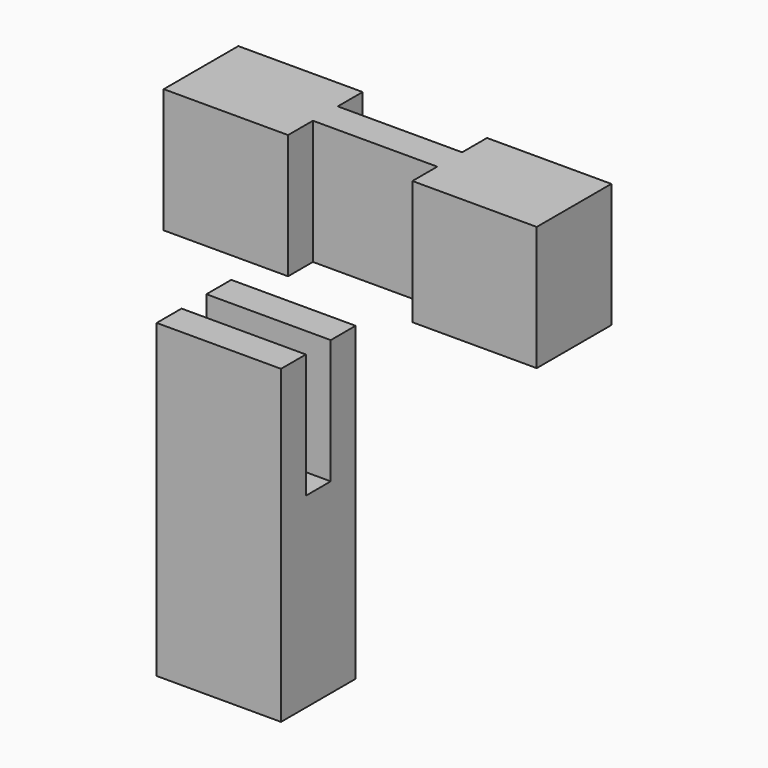
from build123d import *

# Parameters (mm, degrees)
F0_W     = 40
F0_H     = 100
F1_DEPTH = 30
F2_W     = 40
F2_H     = 10
F3_DEPTH = 40
F4_W     = 120
F4_H     = 40
F5_DEPTH = 30
F6_W     = 40
F6_H     = 40
F7_DEPTH = 10
F8_W     = 40
F8_H     = 40
F9_DEPTH = 10


with BuildPart() as f1:
    # F0 (on Front) → F1 (new body)
    with BuildSketch(Plane.XZ):
        with Locations((-39.255778, 2.386363)):
            Rectangle(F0_W, F0_H)
    extrude(amount=F1_DEPTH)

    # F2 (on face) → F3 (cut)
    with BuildSketch(Plane.XY.offset(52.386363)):
        with Locations((-39.255778, -15)):
            Rectangle(F2_W, F2_H)
    extrude(amount=-F3_DEPTH, mode=Mode.SUBTRACT)


with BuildPart() as f5:
    # F4 (on Front) → F5 (new body)
    with BuildSketch(Plane.XZ):
        with Locations((3.011037, 99.326296)):
            Rectangle(F4_W, F4_H)
    extrude(amount=F5_DEPTH)

    # F6 (on face) → F7 (cut)
    with BuildSketch(Plane.XZ.offset(30)):
        with Locations((3.011037, 99.326296)):
            Rectangle(F6_W, F6_H)
    extrude(amount=-F7_DEPTH, mode=Mode.SUBTRACT)

    # F8 (on face) → F9 (cut)
    with BuildSketch(Plane(origin=(0, 0, 0), x_dir=(-1, 0, 0), z_dir=(0, 1, 0))):
        with Locations((-3.011037, 99.326296)):
            Rectangle(F8_W, F8_H)
    extrude(amount=-F9_DEPTH, mode=Mode.SUBTRACT)


solid = Compound([f1.part, f5.part])
